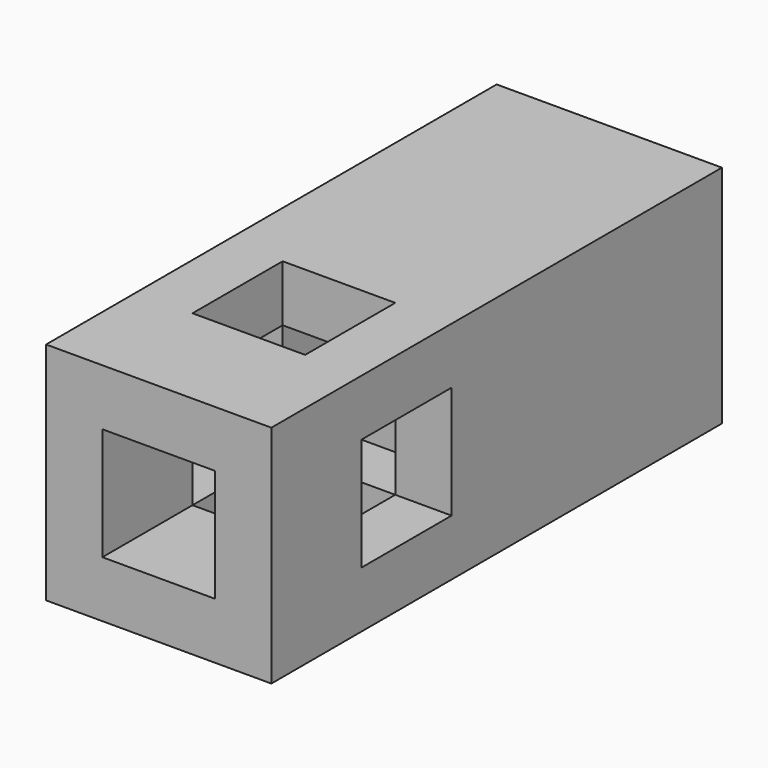
from build123d import *

# Parameters (mm, degrees)
F0_W     = 20
F0_H     = 20
F1_DEPTH = 50
F2_W     = 10
F2_H     = 10
F3_DEPTH = 25
F4_W     = 10
F4_H     = 10
F5_DEPTH = 25
F6_W     = 10
F6_H     = 10
F7_DEPTH = 25


with BuildPart() as f1:
    # F0 (on Front) → F1 (new body)
    with BuildSketch(Plane.XZ):
        with Locations((-10, 10)):
            Rectangle(F0_W, F0_H)
    extrude(amount=F1_DEPTH)

    # F2 (on face) → F3 (cut)
    with BuildSketch(Plane.XZ.offset(50)):
        with Locations((-10, 10)):
            Rectangle(F2_W, F2_H)
    extrude(amount=-F3_DEPTH, mode=Mode.SUBTRACT)

    # F4 (on face) → F5 (cut)
    with BuildSketch(Plane.XY.offset(20)):
        with Locations((-10, -35)):
            Rectangle(F4_W, F4_H)
    extrude(amount=-F5_DEPTH, mode=Mode.SUBTRACT)

    # F6 (on face) → F7 (cut)
    with BuildSketch(Plane(origin=(-20, 0, 0), x_dir=(0, -1, 0), z_dir=(-1, 0, 0))):
        with Locations((35, 10)):
            Rectangle(F6_W, F6_H)
    extrude(amount=-F7_DEPTH, mode=Mode.SUBTRACT)


solid = f1.part
